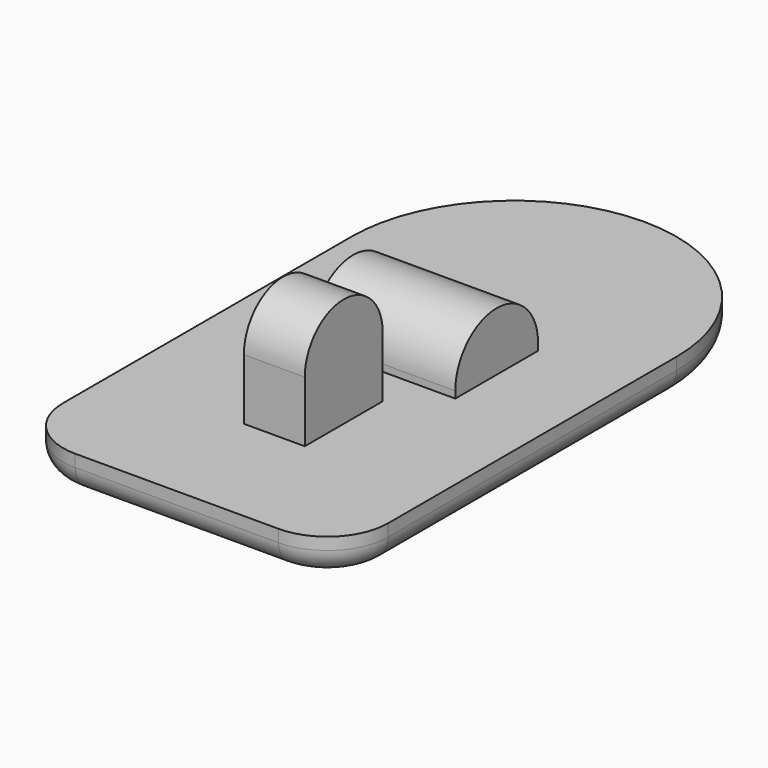
from build123d import *

# Parameters (mm, degrees)
F0_W      = 10.85
F0_H      = 10
F0_W_2    = 2.5
F0_H_2    = 8
F0_W_3    = 7.45
F0_H_3    = 3.2
F0_H_4    = 8.5
F0_W_4    = 5.9
F1_DEPTH  = 3
F2_DEPTH  = 0.563
F3_DEPTH  = 5
F6_DEPTH  = 11.8
F7_DEPTH  = 5
F8_DEPTH  = 25
F9_R      = 2.056128731
F10_DEPTH = 1
F11_R     = 5
F12_R     = 5
F13_R     = 2
F14_DEPTH = 3


with BuildPart() as f1:
    # F0 (on Top) → F1 (new body)
    with BuildSketch(Plane.XY):
        Polygon((-5.9, -16.6), (-13.35, -16.6), (-13.35, -24.6), (-2.5, -24.6), (-2.5, -16.6), align=None)
        with Locations((-7.925, -29.6)):
            Rectangle(F0_W, F0_H)
        with Locations((1.25, -29.6)):
            Rectangle(F0_W_2, F0_H)
        with Locations((-1.25, -29.6)):
            Rectangle(F0_W_2, F0_H)
        with Locations((-1.25, -20.6)):
            Rectangle(F0_W_2, F0_H_2)
        with Locations((1.25, -20.6)):
            Rectangle(F0_W_2, F0_H_2)
        Polygon((13.35, -24.6), (13.35, -16.6), (5.9, -16.6), (2.5, -16.6), (2.5, -24.6), align=None)
        with Locations((7.925, -29.6)):
            Rectangle(F0_W, F0_H)
        Polygon((5.9, -13.4), (0, -13.4), (0, -16.6), (2.5, -16.6), (5.9, -16.6), align=None)
        with Locations((9.625, -15)):
            Rectangle(F0_W_3, F0_H_3)
        Polygon((0, -16.6), (0, -13.4), (-5.9, -13.4), (-5.9, -16.6), (-2.5, -16.6), align=None)
        with Locations((-9.625, -15)):
            Rectangle(F0_W_3, F0_H_3)
        with Locations((-9.625, -9.15)):
            Rectangle(F0_W_3, F0_H_4)
        with Locations((-2.95, -9.15)):
            Rectangle(F0_W_4, F0_H_4)
        with Locations((2.95, -9.15)):
            Rectangle(F0_W_4, F0_H_4)
        with Locations((9.625, -9.15)):
            Rectangle(F0_W_3, F0_H_4)
        with BuildLine():
            Line((13.35, -4.9), (13.35, 0))
            ThreePointArc((13.35, 0), (9.4398755288, 9.4398755288), (0, 13.35))
            Line((0, 13.35), (0, -4.9))
            Line((0, -4.9), (5.9, -4.9))
            Line((5.9, -4.9), (13.35, -4.9))
        make_face()
        with BuildLine():
            Line((0, -4.9), (0, 13.35))
            ThreePointArc((0, 13.35), (-9.4398755288, 9.4398755288), (-13.35, 0))
            Line((-13.35, 0), (-13.35, -4.9))
            Line((-13.35, -4.9), (-5.9, -4.9))
            Line((-5.9, -4.9), (0, -4.9))
        make_face()
    extrude(amount=-F1_DEPTH)

    # F0 (on Top) → F2 (join)
    with BuildSketch(Plane.XY):
        with Locations((-2.95, -9.15)):
            Rectangle(F0_W_4, F0_H_4)
        with Locations((2.95, -9.15)):
            Rectangle(F0_W_4, F0_H_4)
    extrude(amount=F2_DEPTH)

    # F0 (on Top) → F3 (join)
    with BuildSketch(Plane.XY):
        with Locations((1.25, -20.6)):
            Rectangle(F0_W_2, F0_H_2)
        with Locations((-1.25, -20.6)):
            Rectangle(F0_W_2, F0_H_2)
    extrude(amount=F3_DEPTH)

    # F5 (on face) → F6 (join)
    with BuildSketch(Plane.YZ.offset(5.9)):
        with BuildLine():
            Line((-13.4, 0.563), (-4.9, 0.563))
            ThreePointArc((-4.9, 0.563), (-9.15, 4.813), (-13.4, 0.563))
        make_face()
    extrude(amount=-F6_DEPTH)

    # F4 (on face) → F7 (join)
    with BuildSketch(Plane.YZ.offset(2.5)):
        with BuildLine():
            Line((-19.311, 5), (-16.6, 5))
            ThreePointArc((-16.6, 5), (-20.6, 9), (-24.6, 5))
            Line((-24.6, 5), (-21.889, 5))
            ThreePointArc((-21.889, 5), (-20.6, 6.289), (-19.311, 5))
        make_face()
    extrude(amount=-F7_DEPTH)

    # F4 (on face) → F8 (cut)
    with BuildSketch(Plane.YZ.offset(2.5)):
        with BuildLine():
            ThreePointArc((-21.889, 5), (-20.6, 3.711), (-19.311, 5))
            Line((-19.311, 5), (-21.889, 5))
        make_face()
        with BuildLine():
            Line((-21.889, 5), (-19.311, 5))
            ThreePointArc((-19.311, 5), (-20.6, 6.289), (-21.889, 5))
        make_face()
    extrude(amount=-F8_DEPTH, mode=Mode.SUBTRACT)

    # F9 (on face) → F10 (join)
    with BuildSketch(Plane.YZ.offset(2.5)):
        with Locations((-20.6, 5)):
            Circle(F9_R)
    extrude(amount=-F10_DEPTH)

    # F11
    f11_edges = [f1.edges().sort_by_distance(p)[0] for p in [
        (13.35, -34.6, -1.5),
    ]]
    fillet(f11_edges, radius=F11_R)

    # F12
    f12_edges = [f1.edges().sort_by_distance(p)[0] for p in [
        (-13.35, -34.6, -1.5),
    ]]
    fillet(f12_edges, radius=F12_R)

    # F13
    f13_edges = [f1.edges().sort_by_distance(p)[0] for p in [
        (0, -34.6, -3),
    ]]
    fillet(f13_edges, radius=F13_R)

    # F14 (add): a face of the model
    f14_faces = [f1.faces().sort_by_distance(p)[0] for p in [
        (1.5, -20.6, 5),
    ]]
    extrude(f14_faces, amount=F14_DEPTH)


solid = f1.part
